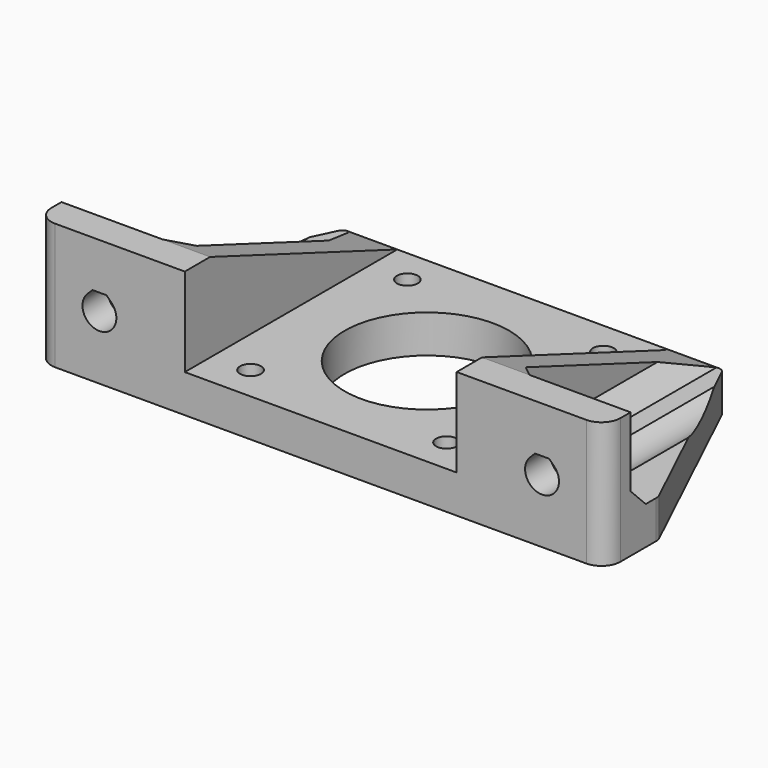
from build123d import *

# Parameters (mm, degrees)
BOX001_W                             = 10
BOX001_H                             = 20
BOX001_DEPTH                         = 20
EXTRUDE002_DEPTH                     = 10
EXTRUDE002_ONTO_SKETCH003_ROLL_ANGLE = 90
BOX_W                                = 28.5
BOX_H                                = 5
BOX_DEPTH                            = 20
CLONE_PLACEMENT_ANGLE                = 180
CYLINDER_R                           = 5
CYLINDER_DEPTH                       = 35
CYLINDER_ROLL_ANGLE                  = -90
SKETCH_R                             = 1.65
SKETCH_R_2                           = 13
EXTRUDE_DEPTH                        = 6
EXTRUDE001_DEPTH                     = 4.5
CHAMFER_SIZE                         = 3
FILLET_1_R                           = 3
FILLET_2_R                           = 2
FILLET_3_R                           = 1


with BuildPart() as cubo:
    # Box001 → Box001 (new body)
    with BuildSketch(Plane(origin=(45, 0, 0), x_dir=(1, 0, 0), z_dir=(0, 0, 1))):
        with Locations((5, 10)):
            Rectangle(BOX001_W, BOX001_H)
    extrude(amount=BOX001_DEPTH)


with BuildPart() as clone_of_cubo:
    # Clone004 base: copy of Cubo
    add(cubo.part)


with BuildPart() as clone_of_cubo_1:
    # Clone004 placement: moved
    add(clone_of_cubo.part.moved(Location((-100, 0, 0))))


with BuildPart() as obj1:
    # Fusion002 base: copy of Cubo
    add(cubo.part)

    # Fusion002: union Clone of Cubo
    add(clone_of_cubo_1.part)


with BuildPart() as obj2:
    # Sketch003 as drawn → Extrude002 (new)
    with BuildSketch(Plane.XY):
        with BuildLine():
            ThreePointArc((-1.895057, 1.895035), (0, -2.68), (1.895057, 1.895035))
            Line((1.110092, 2.68), (1.895057, 1.895035))
            Line((-1.110092, 2.68), (1.110092, 2.68))
            Line((-1.895057, 1.895035), (-1.110092, 2.68))
        make_face()
    extrude(amount=-EXTRUDE002_DEPTH)


with BuildPart() as obj2_1:
    # Extrude002 onto Sketch003 roll: moved
    add(obj2.part.rotate(Axis((0, 0, 0), (1, 0, 0)), EXTRUDE002_ONTO_SKETCH003_ROLL_ANGLE))


with BuildPart() as obj2_2:
    # Extrude002 onto Sketch003 placement: moved
    add(obj2_1.part.moved(Location((0, 0, 10))))


with BuildPart() as obj2_3:
    # Extrude002 placement: moved
    add(obj2_2.part.moved(Location((35, -1, 0))))


with BuildPart() as clone002:
    # Clone002 base: copy of obj2
    add(obj2_3.part)


with BuildPart() as clone002_1:
    # Clone002 placement: moved
    add(clone002.part.moved(Location((-70, 0, 0))))


with BuildPart() as soporte_vertical:
    # Box → Box (new body)
    with BuildSketch(Plane(origin=(-50, 0, 0), x_dir=(1, 0, 0), z_dir=(0, 0, 1))):
        with Locations((14.25, 2.5)):
            Rectangle(BOX_W, BOX_H)
    extrude(amount=BOX_DEPTH)


with BuildPart() as cut:
    # Cut base: copy of soporte_vertical
    add(soporte_vertical.part)

    # Cut: cut Clone002
    add(clone002_1.part, mode=Mode.SUBTRACT)


with BuildPart() as cut001:
    # Clone base: copy of soporte_vertical
    add(soporte_vertical.part)


with BuildPart() as cut001_1:
    # Clone placement: moved
    add(cut001.part.moved(Location((0, 5, 0))).rotate(Axis((0, 5, 0), (0, 0, 1)), CLONE_PLACEMENT_ANGLE))

    # Cut001: cut obj2
    add(obj2_3.part, mode=Mode.SUBTRACT)


with BuildPart() as hueco_cabeza_tornillo:
    # Cylinder → Cylinder (new body)
    with BuildSketch(Plane.XY):
        Circle(CYLINDER_R)
    extrude(amount=CYLINDER_DEPTH)


with BuildPart() as hueco_cabeza_tornillo_1:
    # Cylinder roll: moved
    add(hueco_cabeza_tornillo.part.rotate(Axis((0, 0, 0), (1, 0, 0)), CYLINDER_ROLL_ANGLE))


with BuildPart() as hueco_cabeza_tornillo_2:
    # Cylinder placement: moved
    add(hueco_cabeza_tornillo_1.part.moved(Location((35, 5, 10))))


with BuildPart() as huecos_cabeza_tornillo:
    # Clone003 base: copy of hueco_cabeza_tornillo
    add(hueco_cabeza_tornillo_2.part)


with BuildPart() as huecos_cabeza_tornillo_1:
    # Clone003 placement: moved
    add(huecos_cabeza_tornillo.part.moved(Location((-70, 0, 0))))

    # Fusion: union hueco_cabeza_tornillo
    add(hueco_cabeza_tornillo_2.part)


with BuildPart() as base_hueco_motor_con_cabeza_tornillo:
    # Sketch → Extrude (new body)
    with BuildSketch(Plane.XY):
        Polygon((-30, 42), (30, 42), (50, 0), (-50, 0), align=None)
        with Locations((-15.5, 36.5)):
            Circle(SKETCH_R, mode=Mode.SUBTRACT)
        with Locations((15.5, 36.5)):
            Circle(SKETCH_R, mode=Mode.SUBTRACT)
        with Locations((-15.5, 5.5)):
            Circle(SKETCH_R, mode=Mode.SUBTRACT)
        with Locations((15.5, 5.5)):
            Circle(SKETCH_R, mode=Mode.SUBTRACT)
        with Locations((0, 21)):
            Circle(SKETCH_R_2, mode=Mode.SUBTRACT)
    extrude(amount=EXTRUDE_DEPTH)

    # Cut002: cut huecos_cabeza_tornillo
    add(huecos_cabeza_tornillo_1.part, mode=Mode.SUBTRACT)


with BuildPart() as obj3:
    # Sketch002 → Extrude001 (new body)
    with BuildSketch(Plane.YZ):
        Polygon((5, 20), (42, 6), (5, 6), align=None)
    extrude(amount=EXTRUDE001_DEPTH)


with BuildPart() as obj3_1:
    # Extrude001 placement: moved
    add(obj3.part.moved(Location((21.5, 0, 0))))


with BuildPart() as clone001:
    # Clone001 base: copy of obj3
    add(obj3_1.part)


with BuildPart() as clone001_1:
    # Clone001 placement: moved
    add(clone001.part.moved(Location((-47.5, 0, 0))))


with BuildPart() as nema17_holder_v03:
    # Fusion001 base: copy of obj3
    add(obj3_1.part)

    # Fusion001: union Cut, Cut001, base_hueco_motor_con_cabeza_tornillo, Clone001
    add(cut.part)
    add(cut001_1.part)
    add(base_hueco_motor_con_cabeza_tornillo.part)
    add(clone001_1.part)

    # Chamfer
    chamfer_edges = [nema17_holder_v03.edges().sort_by_distance(p)[0] for p in [
        (26, 5, 13),
        (26, 23.5, 6),
        (42.809524, 5, 6),
        (29, 5, 6),
        (-26, 23.5, 6),
        (-29, 5, 6),
        (-42.809524, 5, 6),
        (-26, 5, 13),
    ]]
    chamfer(chamfer_edges, length=CHAMFER_SIZE)

    # Cut003: cut obj1
    add(obj1.part, mode=Mode.SUBTRACT)

    # Fillet 1
    fillet_1_edges = [nema17_holder_v03.edges().sort_by_distance(p)[0] for p in [
        (45, 0, 10),
        (-45, 0, 10),
    ]]
    fillet(fillet_1_edges, radius=FILLET_1_R)

    # Fillet 2
    fillet_2_edges = [nema17_holder_v03.edges().sort_by_distance(p)[0] for p in [
        (45, 10.5, 3),
        (-45, 10.5, 3),
    ]]
    fillet(fillet_2_edges, radius=FILLET_2_R)

    # Fillet 3
    fillet_3_edges = [nema17_holder_v03.edges().sort_by_distance(p)[0] for p in [
        (30, 42, 3),
        (-30, 42, 3),
    ]]
    fillet(fillet_3_edges, radius=FILLET_3_R)


solid = nema17_holder_v03.part
